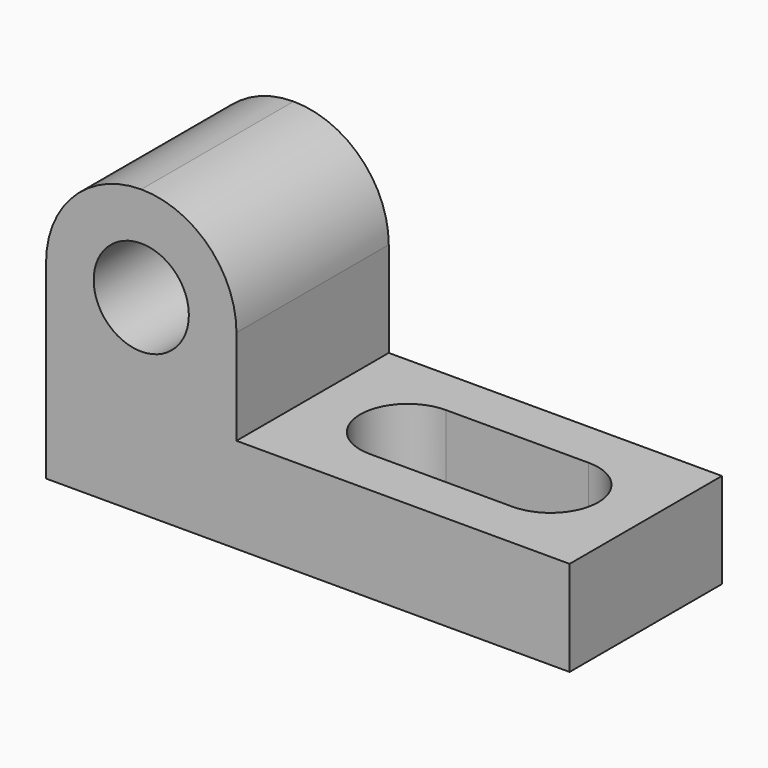
from build123d import *

# Parameters (mm, degrees)
F0_W     = 69.85
F0_H     = 38.1
F1_DEPTH = 25.4
F2_R     = 6.35
F3_DEPTH = 25.4
F5_DEPTH = 12.7


with BuildPart() as f1:
    # F0 (on Front) → F1 (new body)
    with BuildSketch(Plane.XZ):
        with Locations((34.925, 19.05)):
            Rectangle(F0_W, F0_H)
    extrude(amount=F1_DEPTH)

    # F2 (on face) → F3 (cut)
    with BuildSketch(Plane.XZ.offset(25.4)):
        with Locations((12.7, 25.4)):
            Circle(F2_R)
        with BuildLine():
            ThreePointArc((12.7, 38.1), (21.680256, 34.380256), (25.4, 25.4))
            Line((25.4, 25.4), (25.4, 12.7))
            Line((25.4, 12.7), (69.85, 12.7))
            Line((69.85, 12.7), (69.85, 38.1))
            Line((69.85, 38.1), (12.7, 38.1))
        make_face()
        with BuildLine():
            ThreePointArc((0, 25.4), (3.719744, 34.380256), (12.7, 38.1))
            Line((12.7, 38.1), (0, 38.1))
            Line((0, 38.1), (0, 25.4))
        make_face()
    extrude(amount=-F3_DEPTH, mode=Mode.SUBTRACT)

    # F4 (on face) → F5 (cut)
    with BuildSketch(Plane.XY.offset(12.7)):
        with BuildLine():
            ThreePointArc((57.15, -19.05), (50.8, -12.7), (57.15, -6.35))
            Line((57.15, -6.35), (38.1, -6.35))
            ThreePointArc((38.1, -6.35), (42.590128, -8.209872), (44.45, -12.7))
            ThreePointArc((44.45, -12.7), (42.590128, -17.190128), (38.1, -19.05))
            Line((38.1, -19.05), (57.15, -19.05))
        make_face()
        with BuildLine():
            ThreePointArc((44.45, -12.7), (42.590128, -8.209872), (38.1, -6.35))
            ThreePointArc((38.1, -6.35), (31.75, -12.7), (38.1, -19.05))
            ThreePointArc((38.1, -19.05), (42.590128, -17.190128), (44.45, -12.7))
        make_face()
        with BuildLine():
            ThreePointArc((57.15, -19.05), (61.640128, -17.190128), (63.5, -12.7))
            ThreePointArc((63.5, -12.7), (61.640128, -8.209872), (57.15, -6.35))
            ThreePointArc((57.15, -6.35), (50.8, -12.7), (57.15, -19.05))
        make_face()
    extrude(amount=-F5_DEPTH, mode=Mode.SUBTRACT)


solid = f1.part
